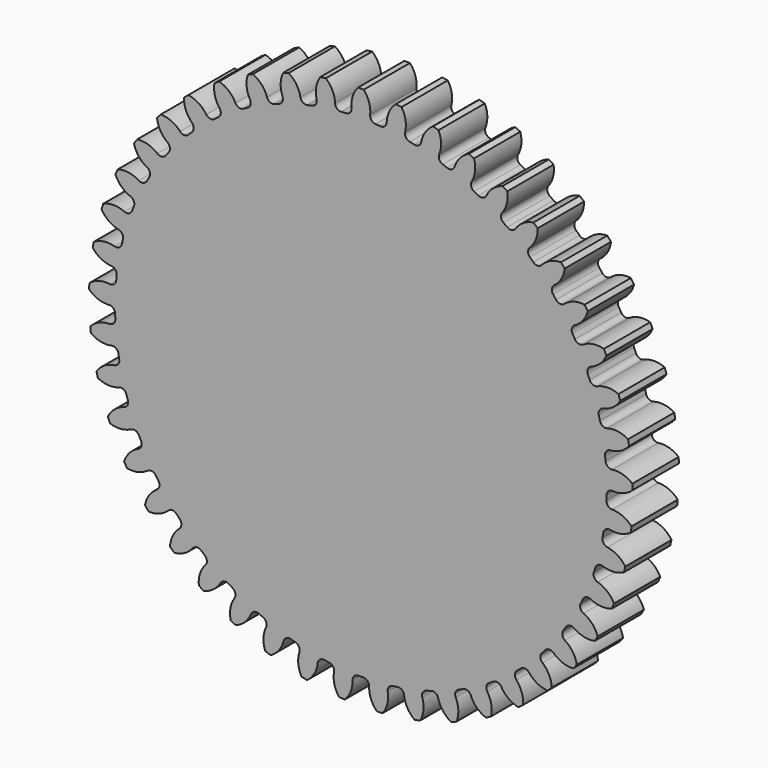
from build123d import *

# Parameters (mm, degrees)
F1_DEPTH = 7


with BuildPart() as f1:
    # F0 (on Front) → F1 (new body)
    with BuildSketch(Plane.XZ):
        with BuildLine():
            ThreePointArc((-1.140775, 30.994028), (-1.303642, 30.469271), (-1.795185, 30.22375))
            ThreePointArc((-1.795185, 30.22375), (-2.088592, 30.20469), (-2.381797, 30.182731))
            ThreePointArc((-2.381797, 30.182731), (-2.902726, 30.357452), (-3.13704, 30.854436))
            ThreePointArc((-3.13704, 30.854436), (-3.452518, 32.120674), (-4.250551, 33.153162))
            ThreePointArc((-4.250551, 33.153162), (-4.592132, 33.106979), (-4.933211, 33.05722))
            ThreePointArc((-4.933211, 33.05722), (-5.415738, 31.844762), (-5.369972, 30.540617))
            ThreePointArc((-5.369972, 30.540617), (-5.458221, 29.998301), (-5.910811, 29.68676))
            ThreePointArc((-5.910811, 29.68676), (-6.19871, 29.627051), (-6.486005, 29.564499))
            ThreePointArc((-6.486005, 29.564499), (-7.026181, 29.665021), (-7.327381, 30.124557))
            ThreePointArc((-7.327381, 30.124557), (-7.816015, 31.334567), (-8.749977, 32.245941))
            ThreePointArc((-8.749977, 32.245941), (-9.081806, 32.152669), (-9.41264, 32.055926))
            ThreePointArc((-9.41264, 32.055926), (-9.72173, 30.788112), (-9.494908, 29.503029))
            ThreePointArc((-9.494908, 29.503029), (-9.506822, 28.953708), (-9.911649, 28.582211))
            ThreePointArc((-9.911649, 28.582211), (-10.188436, 28.483015), (-10.46423, 28.381088))
            ThreePointArc((-10.46423, 28.381088), (-11.013139, 28.405454), (-11.375363, 28.818599))
            ThreePointArc((-11.375363, 28.818599), (-12.027642, 29.948829), (-13.079354, 30.721351))
            ThreePointArc((-13.079354, 30.721351), (-13.394973, 30.582805), (-13.709123, 30.44096))
            ThreePointArc((-13.709123, 30.44096), (-13.838759, 29.142468), (-13.435295, 27.901458))
            ThreePointArc((-13.435295, 27.901458), (-13.370643, 27.355825), (-13.719828, 26.931602))
            ThreePointArc((-13.719828, 26.931602), (-13.980116, 26.79485), (-14.23904, 26.655532))
            ThreePointArc((-14.23904, 26.655532), (-14.785999, 26.603267), (-15.202196, 26.961981))
            ThreePointArc((-15.202196, 26.961981), (-16.005425, 27.990431), (-17.154415, 28.609065))
            ThreePointArc((-17.154415, 28.609065), (-17.447681, 28.427942), (-17.739033, 28.243756))
            ThreePointArc((-17.739033, 28.243756), (-17.686692, 26.939859), (-17.11444, 25.767078))
            ThreePointArc((-17.11444, 25.767078), (-16.974479, 25.235753), (-17.261225, 24.767061))
            ThreePointArc((-17.261225, 24.767061), (-17.499948, 24.595415), (-17.736963, 24.421418))
            ThreePointArc((-17.736963, 24.421418), (-18.271325, 24.293539), (-18.733395, 24.590838))
            ThreePointArc((-18.733395, 24.590838), (-19.67194, 25.497492), (-20.895846, 25.950197))
            ThreePointArc((-20.895846, 25.950197), (-21.16105, 25.730022), (-21.423932, 25.50708))
            ThreePointArc((-21.423932, 25.50708), (-21.190634, 24.223156), (-20.460731, 23.141431))
            ThreePointArc((-20.460731, 23.141431), (-20.248186, 22.634756), (-20.466913, 22.130718))
            ThreePointArc((-20.466913, 22.130718), (-20.679424, 21.927518), (-20.889916, 21.722228))
            ThreePointArc((-20.889916, 21.722228), (-21.40128, 21.521226), (-21.900229, 21.751324))
            ThreePointArc((-21.900229, 21.751324), (-22.955822, 22.518534), (-24.230821, 22.796498))
            ThreePointArc((-24.230821, 22.796498), (-24.462802, 22.541556), (-24.692099, 22.284198))
            ThreePointArc((-24.692099, 22.284198), (-24.282383, 21.045239), (-23.409036, 20.075624))
            ThreePointArc((-23.409036, 20.075624), (-23.128045, 19.60346), (-23.274494, 19.073886))
            ThreePointArc((-23.274494, 19.073886), (-23.456657, 18.843088), (-23.63653, 18.610501))
            ThreePointArc((-23.63653, 18.610501), (-24.114944, 18.340287), (-24.64106, 18.498705))
            ThreePointArc((-24.64106, 18.498705), (-25.793155, 19.111538), (-27.094431, 19.209352))
            ThreePointArc((-27.094431, 19.209352), (-27.288673, 18.924606), (-27.479921, 18.63784))
            ThreePointArc((-27.479921, 18.63784), (-26.901763, 17.46796), (-25.901971, 16.629327))
            ThreePointArc((-25.901971, 16.629327), (-25.558002, 16.200865), (-25.629324, 15.656064))
            ThreePointArc((-25.629324, 15.656064), (-25.777593, 15.402159), (-25.923346, 15.146802))
            ThreePointArc((-25.923346, 15.146802), (-26.359497, 14.812635), (-26.902541, 14.89629))
            ThreePointArc((-26.902541, 14.89629), (-28.128713, 15.342819), (-29.430939, 15.258579))
            ThreePointArc((-29.430939, 15.258579), (-29.583661, 14.94957), (-29.733138, 14.638979))
            ThreePointArc((-29.733138, 14.638979), (-28.99779, 13.560947), (-27.891014, 12.869621))
            ThreePointArc((-27.891014, 12.869621), (-27.490761, 12.493199), (-27.485567, 11.943774))
            ThreePointArc((-27.485567, 11.943774), (-27.597057, 11.671706), (-27.705852, 11.398549))
            ThreePointArc((-27.705852, 11.398549), (-28.091252, 11.006933), (-28.640653, 11.014197))
            ThreePointArc((-28.640653, 11.014197), (-29.917038, 11.28573), (-31.194866, 11.021075))
            ThreePointArc((-31.194866, 11.021075), (-31.303097, 10.693819), (-31.407893, 10.365447))
            ThreePointArc((-31.407893, 10.365447), (-30.529668, 9.400247), (-29.337449, 8.869682))
            ThreePointArc((-29.337449, 8.869682), (-28.888704, 8.552628), (-28.807095, 8.009273))
            ThreePointArc((-28.807095, 8.009273), (-28.879635, 7.724336), (-28.949356, 7.438696))
            ThreePointArc((-28.949356, 7.438696), (-29.276502, 6.997254), (-29.821568, 6.927986))
            ThreePointArc((-29.821568, 6.927986), (-31.123321, 7.019238), (-32.35188, 6.579318))
            ThreePointArc((-32.35188, 6.579318), (-32.413512, 6.240184), (-32.471588, 5.900423))
            ThreePointArc((-32.471588, 5.900423), (-31.467581, 5.066843), (-30.213123, 4.707366))
            ThreePointArc((-30.213123, 4.707366), (-29.72462, 4.455851), (-29.568185, 3.929141))
            ThreePointArc((-29.568185, 3.929141), (-29.600364, 3.636881), (-29.629652, 3.344318))
            ThreePointArc((-29.629652, 3.344318), (-29.892178, 2.861643), (-30.422299, 2.717189))
            ThreePointArc((-30.422299, 2.717189), (-31.724083, 2.626384), (-32.879462, 2.019764))
            ThreePointArc((-32.879462, 2.019764), (-32.893295, 1.675353), (-32.90352, 1.330816))
            ThreePointArc((-32.90352, 1.330816), (-31.793272, 0.645078), (-30.500993, 0.463686))
            ThreePointArc((-30.500993, 0.463686), (-29.98224, 0.282605), (-29.754023, -0.217207))
            ThreePointArc((-29.754023, -0.217207), (-29.745214, -0.511101), (-29.733501, -0.804893))
            ThreePointArc((-29.733501, -0.804893), (-29.926296, -1.319407), (-30.431154, -1.536233))
            ThreePointArc((-30.431154, -1.536233), (-31.707632, -1.807328), (-32.767341, -2.568842))
            ThreePointArc((-32.767341, -2.568842), (-32.733108, -2.911827), (-32.695282, -3.254434))
            ThreePointArc((-32.695282, -3.254434), (-31.500403, -3.778982), (-30.195456, -3.778758))
            ThreePointArc((-30.195456, -3.778758), (-29.656549, -3.88588), (-29.360993, -4.349066))
            ThreePointArc((-29.360993, -4.349066), (-29.311368, -4.638874), (-29.258881, -4.928177))
            ThreePointArc((-29.258881, -4.928177), (-29.378193, -5.464516), (-29.847962, -5.749495))
            ThreePointArc((-29.847962, -5.749495), (-31.074287, -6.195602), (-32.017701, -7.097189))
            ThreePointArc((-32.017701, -7.097189), (-31.936067, -7.432071), (-31.850928, -7.76608))
            ThreePointArc((-31.850928, -7.76608), (-30.594674, -8.119227), (-29.302457, -7.937392))
            ThreePointArc((-29.302457, -7.937392), (-28.753887, -7.96847), (-28.396745, -8.386016))
            ThreePointArc((-28.396745, -8.386016), (-28.307269, -8.666096), (-28.215029, -8.945279))
            ThreePointArc((-28.215029, -8.945279), (-28.258536, -9.493003), (-28.684072, -9.840588))
            ThreePointArc((-28.684072, -9.840588), (-29.836377, -10.453026), (-30.645133, -11.477136))
            ThreePointArc((-30.645133, -11.477136), (-30.517686, -11.797398), (-30.386891, -12.116307))
            ThreePointArc((-30.386891, -12.116307), (-29.093714, -12.291181), (-27.83938, -11.931273))
            ThreePointArc((-27.83938, -11.931273), (-27.291823, -11.885703), (-26.880045, -12.24948))
            ThreePointArc((-26.880045, -12.24948), (-26.75246, -12.514382), (-26.622263, -12.778011))
            ThreePointArc((-26.622263, -12.778011), (-26.589119, -13.32646), (-26.962138, -13.729885))
            ThreePointArc((-26.962138, -13.729885), (-28.017995, -14.496732), (-28.676351, -15.623433))
            ThreePointArc((-28.676351, -15.623433), (-28.505573, -15.922841), (-28.331667, -16.220443))
            ThreePointArc((-28.331667, -16.220443), (-27.026738, -16.21364), (-25.8347, -15.682665))
            ThreePointArc((-25.8347, -15.682665), (-25.298814, -15.561333), (-24.840415, -15.864262))
            ThreePointArc((-24.840415, -15.864262), (-24.677205, -16.108829), (-24.511585, -16.351772))
            ThreePointArc((-24.511585, -16.351772), (-24.402434, -16.890271), (-24.715678, -17.341684))
            ThreePointArc((-24.715678, -17.341684), (-25.654534, -18.248016), (-26.149677, -19.455377))
            ThreePointArc((-26.149677, -19.455377), (-25.938891, -19.728103), (-25.725259, -19.998606))
            ThreePointArc((-25.725259, -19.998606), (-24.433976, -19.810258), (-23.327437, -19.118551))
            ThreePointArc((-23.327437, -19.118551), (-22.813652, -18.923819), (-22.317555, -19.160003))
            ThreePointArc((-22.317555, -19.160003), (-22.121896, -19.379476), (-21.924077, -19.597005))
            ThreePointArc((-21.924077, -19.597005), (-21.741043, -20.115072), (-21.988414, -20.605687))
            ThreePointArc((-21.988414, -20.605687), (-22.791996, -21.633862), (-23.114288, -22.898383))
            ThreePointArc((-23.114288, -22.898383), (-22.867598, -23.13912), (-22.618398, -23.377259))
            ThreePointArc((-22.618398, -23.377259), (-21.365895, -23.011032), (-20.366391, -22.172056))
            ThreePointArc((-20.366391, -22.172056), (-19.884708, -21.907714), (-19.360569, -22.072556))
            ThreePointArc((-19.360569, -22.072556), (-19.136269, -22.262663), (-18.910101, -22.450544))
            ThreePointArc((-18.910101, -22.450544), (-18.656747, -22.938096), (-18.83343, -23.458363))
            ThreePointArc((-18.83343, -23.458363), (-19.486098, -24.588369), (-19.629266, -25.885439))
            ThreePointArc((-19.629266, -25.885439), (-19.351472, -26.0895), (-19.071555, -26.290639))
            ThreePointArc((-19.071555, -26.290639), (-17.88221, -25.753661), (-17.009196, -24.783747))
            ThreePointArc((-17.009196, -24.783747), (-16.568991, -24.45494), (-16.02701, -24.545231))
            ThreePointArc((-16.02701, -24.545231), (-15.778435, -24.702271), (-15.52832, -24.856847))
            ThreePointArc((-15.52832, -24.856847), (-15.209578, -25.304395), (-15.312135, -25.844189))
            ThreePointArc((-15.312135, -25.844189), (-15.801184, -27.054031), (-15.762442, -28.358403))
            ThreePointArc((-15.762442, -28.358403), (-15.458952, -28.521816), (-15.153766, -28.682041))
            ThreePointArc((-15.153766, -28.682041), (-14.050728, -27.984765), (-13.321197, -26.902789))
            ThreePointArc((-13.321197, -26.902789), (-12.931036, -26.515917), (-12.381764, -26.529901))
            ThreePointArc((-12.381764, -26.529901), (-12.113752, -26.650818), (-11.844559, -26.76908))
            ThreePointArc((-11.844559, -26.76908), (-11.466632, -27.167912), (-11.493065, -27.716726))
            ThreePointArc((-11.493065, -27.716726), (-11.808978, -28.982856), (-11.589079, -30.269142))
            ThreePointArc((-11.589079, -30.269142), (-11.2658, -30.388728), (-10.941285, -30.50492))
            ThreePointArc((-10.941285, -30.50492), (-9.946024, -29.660916), (-9.374174, -28.487939))
            ThreePointArc((-9.374174, -28.487939), (-9.041653, -28.050532), (-8.49578, -27.987936))
            ThreePointArc((-8.49578, -27.987936), (-8.213548, -28.070376), (-7.930516, -28.150023))
            ThreePointArc((-7.930516, -28.150023), (-7.500761, -28.492376), (-7.450556, -29.039527))
            ThreePointArc((-7.450556, -29.039527), (-7.587183, -30.337303), (-7.190408, -31.580467))
            ThreePointArc((-7.190408, -31.580467), (-6.853632, -31.653897), (-6.516104, -31.723794))
            ThreePointArc((-6.516104, -31.723794), (-5.647992, -30.74949), (-5.244954, -29.508343))
            ThreePointArc((-5.244954, -29.508343), (-4.976544, -29.028915), (-4.444695, -28.890957))
            ThreePointArc((-4.444695, -28.890957), (-4.153737, -28.933316), (-3.862374, -28.972797))
            ThreePointArc((-3.862374, -28.972797), (-3.389155, -29.252008), (-3.26329, -29.786847))
            ThreePointArc((-3.26329, -29.786847), (-3.217972, -31.091007), (-2.652044, -32.266853))
            ThreePointArc((-2.652044, -32.266853), (-2.308325, -32.292698), (-1.964355, -32.314941))
            ThreePointArc((-1.964355, -32.314941), (-1.240288, -31.229301), (-1.013907, -29.94414))
            ThreePointArc((-1.013907, -29.94414), (-0.814832, -29.432022), (-0.307359, -29.221388))
            ThreePointArc((-0.307359, -29.221388), (-0.013337, -29.222841), (0.280685, -29.221388))
            ThreePointArc((0.280685, -29.221388), (0.788158, -29.432022), (0.987232, -29.94414))
            ThreePointArc((0.987232, -29.94414), (1.213613, -31.229301), (1.93768, -32.314941))
            ThreePointArc((1.93768, -32.314941), (2.281651, -32.292698), (2.625369, -32.266853))
            ThreePointArc((2.625369, -32.266853), (3.191298, -31.091007), (3.236616, -29.786847))
            ThreePointArc((3.236616, -29.786847), (3.36248, -29.252008), (3.8357, -28.972797))
            ThreePointArc((3.8357, -28.972797), (4.127063, -28.933316), (4.418021, -28.890957))
            ThreePointArc((4.418021, -28.890957), (4.94987, -29.028915), (5.21828, -29.508343))
            ThreePointArc((5.21828, -29.508343), (5.621318, -30.74949), (6.48943, -31.723794))
            ThreePointArc((6.48943, -31.723794), (6.826957, -31.653897), (7.163734, -31.580467))
            ThreePointArc((7.163734, -31.580467), (7.560509, -30.337303), (7.423882, -29.039527))
            ThreePointArc((7.423882, -29.039527), (7.474086, -28.492376), (7.903841, -28.150023))
            ThreePointArc((7.903841, -28.150023), (8.186874, -28.070376), (8.469106, -27.987936))
            ThreePointArc((8.469106, -27.987936), (9.014978, -28.050532), (9.3475, -28.487939))
            ThreePointArc((9.3475, -28.487939), (9.91935, -29.660916), (10.914611, -30.50492))
            ThreePointArc((10.914611, -30.50492), (11.239126, -30.388728), (11.562405, -30.269142))
            ThreePointArc((11.562405, -30.269142), (11.782304, -28.982856), (11.466391, -27.716726))
            ThreePointArc((11.466391, -27.716726), (11.439958, -27.167912), (11.817884, -26.76908))
            ThreePointArc((11.817884, -26.76908), (12.087078, -26.650818), (12.35509, -26.529901))
            ThreePointArc((12.35509, -26.529901), (12.904361, -26.515917), (13.294522, -26.902789))
            ThreePointArc((13.294522, -26.902789), (14.024054, -27.984765), (15.127092, -28.682041))
            ThreePointArc((15.127092, -28.682041), (15.432277, -28.521816), (15.735768, -28.358403))
            ThreePointArc((15.735768, -28.358403), (15.77451, -27.054031), (15.28546, -25.844189))
            ThreePointArc((15.28546, -25.844189), (15.182904, -25.304395), (15.501646, -24.856847))
            ThreePointArc((15.501646, -24.856847), (15.751761, -24.702271), (16.000336, -24.545231))
            ThreePointArc((16.000336, -24.545231), (16.542316, -24.45494), (16.982522, -24.783747))
            ThreePointArc((16.982522, -24.783747), (17.855536, -25.753661), (19.044881, -26.290639))
            ThreePointArc((19.044881, -26.290639), (19.324798, -26.0895), (19.602592, -25.885439))
            ThreePointArc((19.602592, -25.885439), (19.459423, -24.588369), (18.806756, -23.458363))
            ThreePointArc((18.806756, -23.458363), (18.630073, -22.938096), (18.883426, -22.450544))
            ThreePointArc((18.883426, -22.450544), (19.109594, -22.262663), (19.333894, -22.072556))
            ThreePointArc((19.333894, -22.072556), (19.858034, -21.907714), (20.339717, -22.172056))
            ThreePointArc((20.339717, -22.172056), (21.33922, -23.011032), (22.591724, -23.377259))
            ThreePointArc((22.591724, -23.377259), (22.840923, -23.13912), (23.087614, -22.898383))
            ThreePointArc((23.087614, -22.898383), (22.765322, -21.633862), (21.961739, -20.605687))
            ThreePointArc((21.961739, -20.605687), (21.714369, -20.115072), (21.897402, -19.597005))
            ThreePointArc((21.897402, -19.597005), (22.095221, -19.379476), (22.290881, -19.160003))
            ThreePointArc((22.290881, -19.160003), (22.786978, -18.923819), (23.300763, -19.118551))
            ThreePointArc((23.300763, -19.118551), (24.407302, -19.810258), (25.698585, -19.998606))
            ThreePointArc((25.698585, -19.998606), (25.912217, -19.728103), (26.123002, -19.455377))
            ThreePointArc((26.123002, -19.455377), (25.627859, -18.248016), (24.689003, -17.341684))
            ThreePointArc((24.689003, -17.341684), (24.37576, -16.890271), (24.484911, -16.351772))
            ThreePointArc((24.484911, -16.351772), (24.650531, -16.108829), (24.813741, -15.864262))
            ThreePointArc((24.813741, -15.864262), (25.27214, -15.561333), (25.808026, -15.682665))
            ThreePointArc((25.808026, -15.682665), (27.000063, -16.21364), (28.304993, -16.220443))
            ThreePointArc((28.304993, -16.220443), (28.478899, -15.922841), (28.649677, -15.623433))
            ThreePointArc((28.649677, -15.623433), (27.99132, -14.496732), (26.935464, -13.729885))
            ThreePointArc((26.935464, -13.729885), (26.562445, -13.32646), (26.595589, -12.778011))
            ThreePointArc((26.595589, -12.778011), (26.725786, -12.514382), (26.853371, -12.24948))
            ThreePointArc((26.853371, -12.24948), (27.265149, -11.885703), (27.812706, -11.931273))
            ThreePointArc((27.812706, -11.931273), (29.06704, -12.291181), (30.360217, -12.116307))
            ThreePointArc((30.360217, -12.116307), (30.491012, -11.797398), (30.618458, -11.477136))
            ThreePointArc((30.618458, -11.477136), (29.809702, -10.453026), (28.657397, -9.840588))
            ThreePointArc((28.657397, -9.840588), (28.231862, -9.493003), (28.188355, -8.945279))
            ThreePointArc((28.188355, -8.945279), (28.280594, -8.666096), (28.37007, -8.386016))
            ThreePointArc((28.37007, -8.386016), (28.727213, -7.96847), (29.275783, -7.937392))
            ThreePointArc((29.275783, -7.937392), (30.568, -8.119227), (31.824254, -7.76608))
            ThreePointArc((31.824254, -7.76608), (31.909392, -7.432071), (31.991027, -7.097189))
            ThreePointArc((31.991027, -7.097189), (31.047613, -6.195602), (29.821287, -5.749495))
            ThreePointArc((29.821287, -5.749495), (29.351519, -5.464516), (29.232206, -4.928177))
            ThreePointArc((29.232206, -4.928177), (29.284693, -4.638874), (29.334319, -4.349066))
            ThreePointArc((29.334319, -4.349066), (29.629875, -3.88588), (30.168781, -3.778758))
            ThreePointArc((30.168781, -3.778758), (31.473729, -3.778982), (32.668608, -3.254434))
            ThreePointArc((32.668608, -3.254434), (32.706433, -2.911827), (32.740667, -2.568842))
            ThreePointArc((32.740667, -2.568842), (31.680958, -1.807328), (30.40448, -1.536233))
            ThreePointArc((30.40448, -1.536233), (29.899622, -1.319407), (29.706827, -0.804893))
            ThreePointArc((29.706827, -0.804893), (29.71854, -0.511101), (29.727349, -0.217207))
            ThreePointArc((29.727349, -0.217207), (29.955566, 0.282605), (30.474319, 0.463686))
            ThreePointArc((30.474319, 0.463686), (31.766598, 0.645078), (32.876846, 1.330816))
            ThreePointArc((32.876846, 1.330816), (32.866621, 1.675353), (32.852787, 2.019764))
            ThreePointArc((32.852787, 2.019764), (31.697409, 2.626384), (30.395625, 2.717189))
            ThreePointArc((30.395625, 2.717189), (29.865504, 2.861643), (29.602978, 3.344318))
            ThreePointArc((29.602978, 3.344318), (29.573689, 3.636881), (29.541511, 3.929141))
            ThreePointArc((29.541511, 3.929141), (29.697946, 4.455851), (30.186449, 4.707366))
            ThreePointArc((30.186449, 4.707366), (31.440906, 5.066843), (32.444913, 5.900423))
            ThreePointArc((32.444913, 5.900423), (32.386838, 6.240184), (32.325206, 6.579318))
            ThreePointArc((32.325206, 6.579318), (31.096646, 7.019238), (29.794894, 6.927986))
            ThreePointArc((29.794894, 6.927986), (29.249828, 6.997254), (28.922681, 7.438696))
            ThreePointArc((28.922681, 7.438696), (28.852961, 7.724336), (28.78042, 8.009273))
            ThreePointArc((28.78042, 8.009273), (28.862029, 8.552628), (29.310774, 8.869682))
            ThreePointArc((29.310774, 8.869682), (30.502994, 9.400247), (31.381218, 10.365447))
            ThreePointArc((31.381218, 10.365447), (31.276422, 10.693819), (31.168192, 11.021075))
            ThreePointArc((31.168192, 11.021075), (29.890364, 11.28573), (28.613979, 11.014197))
            ThreePointArc((28.613979, 11.014197), (28.064577, 11.006933), (27.679178, 11.398549))
            ThreePointArc((27.679178, 11.398549), (27.570383, 11.671706), (27.458893, 11.943774))
            ThreePointArc((27.458893, 11.943774), (27.464087, 12.493199), (27.864339, 12.869621))
            ThreePointArc((27.864339, 12.869621), (28.971116, 13.560947), (29.706464, 14.638979))
            ThreePointArc((29.706464, 14.638979), (29.556987, 14.94957), (29.404265, 15.258579))
            ThreePointArc((29.404265, 15.258579), (28.102039, 15.342819), (26.875866, 14.89629))
            ThreePointArc((26.875866, 14.89629), (26.332822, 14.812635), (25.896671, 15.146802))
            ThreePointArc((25.896671, 15.146802), (25.750919, 15.402159), (25.602649, 15.656064))
            ThreePointArc((25.602649, 15.656064), (25.531328, 16.200865), (25.875297, 16.629327))
            ThreePointArc((25.875297, 16.629327), (26.875089, 17.46796), (27.453247, 18.63784))
            ThreePointArc((27.453247, 18.63784), (27.261999, 18.924606), (27.067757, 19.209352))
            ThreePointArc((27.067757, 19.209352), (25.766481, 19.111538), (24.614386, 18.498705))
            ThreePointArc((24.614386, 18.498705), (24.088269, 18.340287), (23.609856, 18.610501))
            ThreePointArc((23.609856, 18.610501), (23.429983, 18.843088), (23.24782, 19.073886))
            ThreePointArc((23.24782, 19.073886), (23.101371, 19.60346), (23.382362, 20.075624))
            ThreePointArc((23.382362, 20.075624), (24.255709, 21.045239), (24.665424, 22.284198))
            ThreePointArc((24.665424, 22.284198), (24.436128, 22.541556), (24.204147, 22.796498))
            ThreePointArc((24.204147, 22.796498), (22.929148, 22.518534), (21.873555, 21.751324))
            ThreePointArc((21.873555, 21.751324), (21.374606, 21.521226), (20.863242, 21.722228))
            ThreePointArc((20.863242, 21.722228), (20.652749, 21.927518), (20.440238, 22.130718))
            ThreePointArc((20.440238, 22.130718), (20.221512, 22.634756), (20.434056, 23.141431))
            ThreePointArc((20.434056, 23.141431), (21.163959, 24.223156), (21.397258, 25.50708))
            ThreePointArc((21.397258, 25.50708), (21.134375, 25.730022), (20.869171, 25.950197))
            ThreePointArc((20.869171, 25.950197), (19.645265, 25.497492), (18.706721, 24.590838))
            ThreePointArc((18.706721, 24.590838), (18.244651, 24.293539), (17.710289, 24.421418))
            ThreePointArc((17.710289, 24.421418), (17.473274, 24.595415), (17.234551, 24.767061))
            ThreePointArc((17.234551, 24.767061), (16.947805, 25.235753), (17.087765, 25.767078))
            ThreePointArc((17.087765, 25.767078), (17.660018, 26.939859), (17.712358, 28.243756))
            ThreePointArc((17.712358, 28.243756), (17.421007, 28.427942), (17.127741, 28.609065))
            ThreePointArc((17.127741, 28.609065), (15.978751, 27.990431), (15.175521, 26.961981))
            ThreePointArc((15.175521, 26.961981), (14.759324, 26.603267), (14.212366, 26.655532))
            ThreePointArc((14.212366, 26.655532), (13.953442, 26.79485), (13.693154, 26.931602))
            ThreePointArc((13.693154, 26.931602), (13.343969, 27.355825), (13.408621, 27.901458))
            ThreePointArc((13.408621, 27.901458), (13.812085, 29.142468), (13.682449, 30.44096))
            ThreePointArc((13.682449, 30.44096), (13.368298, 30.582805), (13.052679, 30.721351))
            ThreePointArc((13.052679, 30.721351), (12.000968, 29.948829), (11.348689, 28.818599))
            ThreePointArc((11.348689, 28.818599), (10.986465, 28.405454), (10.437556, 28.381088))
            ThreePointArc((10.437556, 28.381088), (10.161762, 28.483015), (9.884975, 28.582211))
            ThreePointArc((9.884975, 28.582211), (9.480148, 28.953708), (9.468233, 29.503029))
            ThreePointArc((9.468233, 29.503029), (9.695055, 30.788112), (9.385966, 32.055926))
            ThreePointArc((9.385966, 32.055926), (9.055132, 32.152669), (8.723303, 32.245941))
            ThreePointArc((8.723303, 32.245941), (7.789341, 31.334567), (7.300707, 30.124557))
            ThreePointArc((7.300707, 30.124557), (6.999507, 29.665021), (6.459331, 29.564499))
            ThreePointArc((6.459331, 29.564499), (6.172036, 29.627051), (5.884136, 29.68676))
            ThreePointArc((5.884136, 29.68676), (5.431547, 29.998301), (5.343298, 30.540617))
            ThreePointArc((5.343298, 30.540617), (5.389063, 31.844762), (4.906536, 33.05722))
            ThreePointArc((4.906536, 33.05722), (4.565458, 33.106979), (4.223877, 33.153162))
            ThreePointArc((4.223877, 33.153162), (3.425843, 32.120674), (3.110365, 30.854436))
            ThreePointArc((3.110365, 30.854436), (2.876052, 30.357452), (2.355123, 30.182731))
            ThreePointArc((2.355123, 30.182731), (2.061918, 30.20469), (1.768511, 30.22375))
            ThreePointArc((1.768511, 30.22375), (1.276967, 30.469271), (1.114101, 30.994028))
            ThreePointArc((1.114101, 30.994028), (0.97792, 32.29185), (0.331347, 33.425354))
            ThreePointArc((0.331347, 33.425354), (-0.013337, 33.427159), (-0.358021, 33.425354))
            ThreePointArc((-0.358021, 33.425354), (-1.004594, 32.29185), (-1.140775, 30.994028))
        make_face()
    extrude(amount=F1_DEPTH)


solid = f1.part
